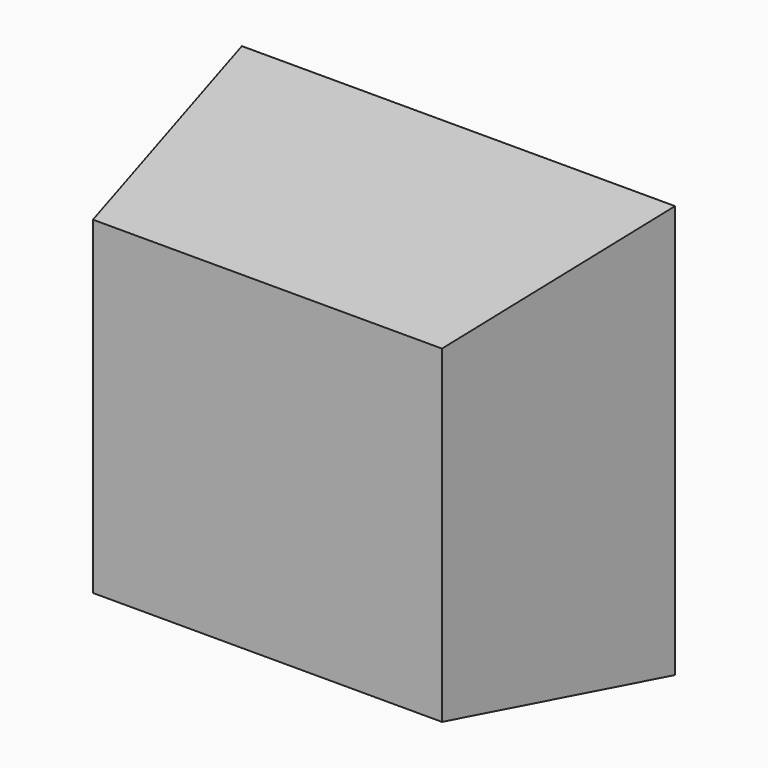
from build123d import *

# Parameters (mm, degrees)
F0_W     = 46.0984632373
F0_H     = 43.9308471978
F1_DEPTH = 25.4
F1_TAPER = 10


with BuildPart() as f1:
    # F0 (on Front) → F1 (new body)
    with BuildSketch(Plane.XZ):
        with Locations((23.0492316186, 21.9654235989)):
            Rectangle(F0_W, F0_H)
    extrude(amount=F1_DEPTH, taper=F1_TAPER)


solid = f1.part
